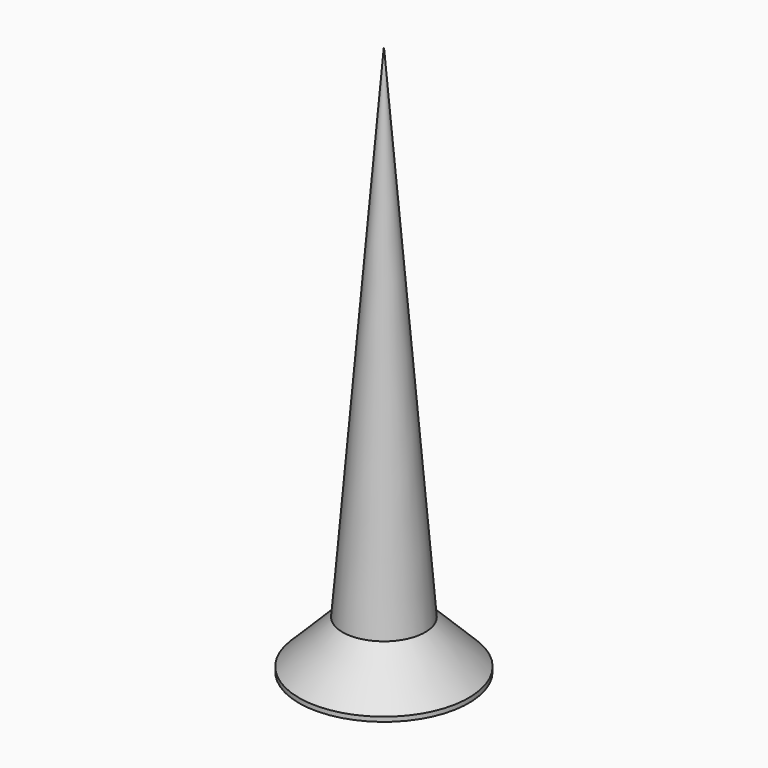
from build123d import *

# Parameters (mm, degrees)
POCKET003_DEPTH         = 0.2
POLARPATTERN003_COUNT   = 2
POLARPATTERN003_ANGLE   = 90
BODY007_PLACEMENT_ANGLE = 180


with BuildPart() as part:
    # Sketch013 → Revolution003 (revolve)
    with BuildSketch(Plane.XZ):
        Polygon((0, 0), (0, -12), (0.9, -1.05), (1.85, -0.1), (1.85, 0), align=None)
    revolve(axis=Axis((0, 0, 0), (0, 0, 1)))

    # Sketch014 → Pocket003 (cut, symmetric)
    with BuildSketch(Plane.XZ):
        Polygon((-1.15, 0), (0, -1.15), (1.15, 0), align=None)
    pocket003 = extrude(amount=POCKET003_DEPTH, both=True, mode=Mode.SUBTRACT)

    # PolarPattern003: Pocket003 ×2 about axis
    polarpattern003_axis = Axis((0, 0, 0), (0, 0, 1))
    for i in range(1, POLARPATTERN003_COUNT):
        add(pocket003.rotate(polarpattern003_axis, i * POLARPATTERN003_ANGLE / (POLARPATTERN003_COUNT - 1)), mode=Mode.SUBTRACT)


with BuildPart() as part_1:
    # Body007 placement: moved
    add(part.part.moved(Location((-25, 19, -22))).rotate(Axis((-25, 19, -22), (0, 1, 0)), BODY007_PLACEMENT_ANGLE))


solid = part_1.part
